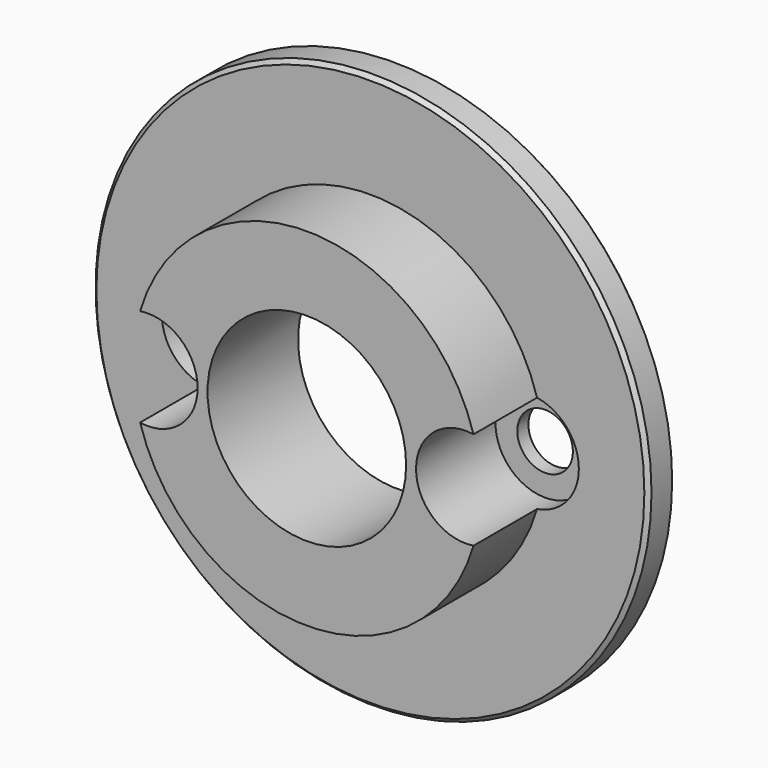
from build123d import *

# Parameters (mm, degrees)
F0_R          = 14
F0_R_2        = 1.4
F0_R_3        = 5
F1_DEPTH      = 1.7
F2_SIZE       = 0.2
F3_R          = 5
F4_DEPTH      = 4
F5_R          = 2.5
F6_DEPTH      = 1
F6_DEPTH_BACK = 4.001


with BuildPart() as f1:
    # F0 (on Front) → F1 (new body)
    with BuildSketch(Plane.XZ):
        Circle(F0_R)
        with Locations((-8, 0)):
            Circle(F0_R_2, mode=Mode.SUBTRACT)
        Circle(F0_R_3, mode=Mode.SUBTRACT)
        with Locations((8, 0)):
            Circle(F0_R_2, mode=Mode.SUBTRACT)
    extrude(amount=-F1_DEPTH)

    # F2
    f2_edges = [f1.edges().sort_by_distance(p)[0] for p in [
        (-14, 1.7, 0),
        (-14, 0, 0),
    ]]
    chamfer(f2_edges, length=F2_SIZE)

    # F3 (on face) → F4 (join)
    with BuildSketch(Plane.XZ):
        with BuildLine():
            ThreePointArc((-8.66265625, 1.2332423502), (-6.6, 0), (-8.66265625, -1.2332423502))
            ThreePointArc((-8.66265625, -1.2332423502), (0, -8.75), (8.66265625, -1.2332423502))
            ThreePointArc((8.66265625, -1.2332423502), (6.6, 0), (8.66265625, 1.2332423502))
            ThreePointArc((8.66265625, 1.2332423502), (0, 8.75), (-8.66265625, 1.2332423502))
        make_face()
        Circle(F3_R, mode=Mode.SUBTRACT)
    extrude(amount=F4_DEPTH)

    # F5 (on face) → F6 (cut, two sides)
    with BuildSketch(Plane.XZ) as f6_sk:
        with Locations((-8, 0)):
            Circle(F5_R)
        with Locations((8, 0)):
            Circle(F5_R)
    extrude(amount=-F6_DEPTH, mode=Mode.SUBTRACT)
    extrude(f6_sk.sketch, amount=F6_DEPTH_BACK, mode=Mode.SUBTRACT)


solid = f1.part
